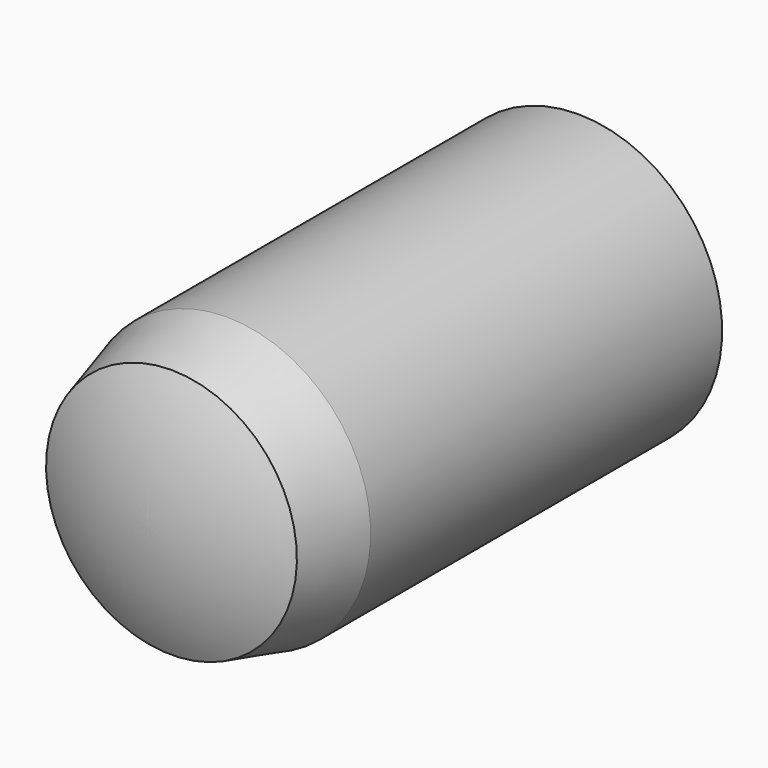
from build123d import *


with BuildPart() as part:
    # Sketch → Revolution (revolve)
    with BuildSketch(Plane.YZ):
        with BuildLine():
            ThreePointArc((0, 2.178461), (-0.373396, 1.117552), (-0.5, 0))
            Line((-0.5, 0), (9.5, 0))
            ThreePointArc((9.5, 0), (9.329454, 1.294182), (8.82946, 2.5))
            Line((1.2, 2.5), (8.82946, 2.5))
            Line((0, 2.178461), (1.2, 2.5))
        make_face()
    revolve(axis=Axis((0, 0, 0), (0, 1, 0)))


solid = part.part
